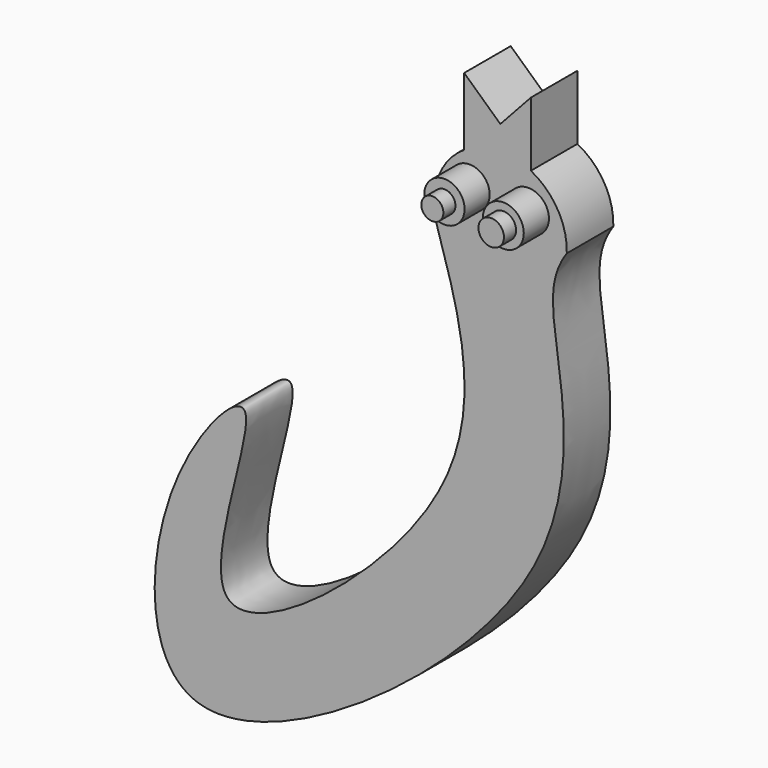
from build123d import *

# Parameters (mm, degrees)
F1_DEPTH = 12.7
F2_R     = 4.3983805948
F2_R_2   = 4.4682374121
F3_DEPTH = 6.858
F4_R     = 2.4099506664
F5_DEPTH = 10.16
F6_R     = 2.7830013039
F7_DEPTH = 3.302


with BuildPart() as f1:
    # F0 (on Front) → F1 (new body)
    with BuildSketch(Plane.XZ):
        with BuildLine():
            add(Edge.make_bspline(
                [(-14.1123402961, 40.7450486955), (-8.6176180648, 23.2467480327), (2.3367063955, -10.5267137688), (-77.2072192986, -71.8397860181), (-46.0042906937, 5.6461227016), (-77.1368900076, -27.6812034156), (-78.6068874528, -94.9418587958), (22.7830039914, -24.4323157197), (11.0680229885, 26.273246227), (11.1081013523, 38.8287120225), (14.5120116698, 43.7250629438)],
                knots=[0, 0, 0, 0, 0.1387435166, 0.282592713, 0.3981014252, 0.4893887926, 0.6124328615, 0.7908646348, 0.9229053657, 1, 1, 1, 1], degree=3))
            ThreePointArc((14.5120116698, 43.7250629438), (12.5100643018, 51.5221465618), (6.6620705773, 57.054169303))
            ThreePointArc((6.6620705773, 57.054169303), (-0.7144150995, 58.6553439142), (-7.8977887207, 56.3368434303))
            ThreePointArc((-7.8977887207, 56.3368434303), (-13.4865659305, 49.5300187665), (-14.1123402961, 40.7450486955))
        make_face()
        with BuildLine():
            ThreePointArc((-7.8977887207, 56.3368434303), (-0.7144150995, 58.6553439142), (6.6620705773, 57.054169303))
            Line((6.6620705773, 57.054169303), (6.6620705773, 71.1208136662))
            Line((6.6620705773, 71.1208136662), (0, 63.867150739))
            Line((0, 63.867150739), (-7.8977887207, 71.1208136662))
            Line((-7.8977887207, 71.1208136662), (-7.8977887207, 56.3368434303))
        make_face()
    extrude(amount=F1_DEPTH)

    # F2 (on face) → F3 (join)
    with BuildSketch(Plane.XZ.offset(12.7)):
        with Locations((-6.7258994095, 49.5300187665)):
            Circle(F2_R)
        with Locations((6.1349305324, 49.132950604)):
            Circle(F2_R_2)
    extrude(amount=F3_DEPTH)

    # F4 (on face) → F5 (join)
    with BuildSketch(Plane.XZ.offset(12.7)):
        with Locations((-6.7258994095, 49.5300187665)):
            Circle(F4_R)
    extrude(amount=F5_DEPTH)

    # F6 (on face) → F7 (join)
    with BuildSketch(Plane.XZ.offset(19.558)):
        with Locations((6.1349305324, 49.132950604)):
            Circle(F6_R)
    extrude(amount=F7_DEPTH)


solid = f1.part
